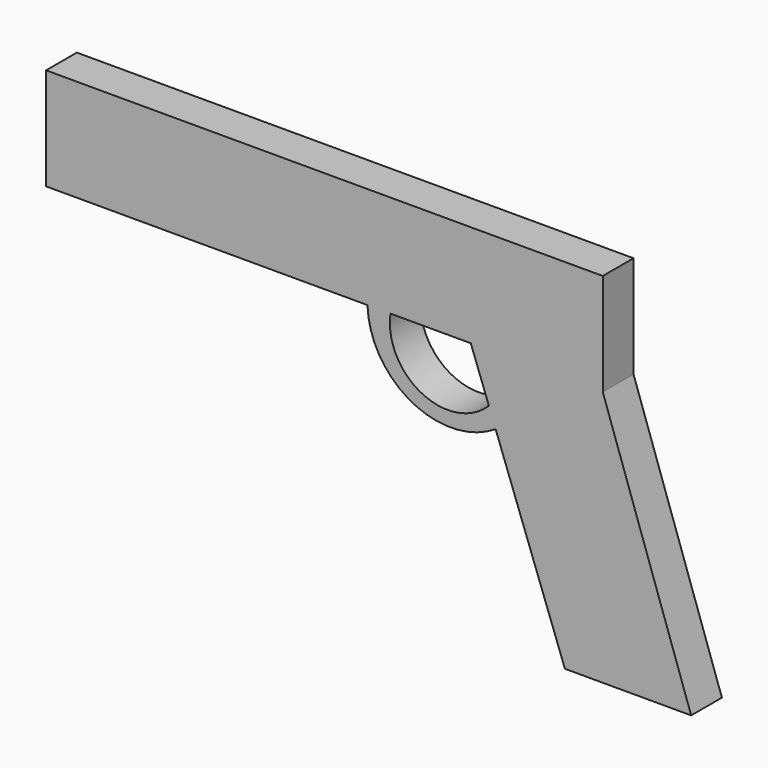
from build123d import *

# Parameters (mm, degrees)
F1_DEPTH = 3.048


with BuildPart() as f1:
    # F0 (on Front) → F1 (new body, symmetric)
    with BuildSketch(Plane.XZ):
        Polygon((33.6788408458, 60.7129372656), (-54.6143352985, 60.7129372656), (-54.6143352985, 44.5106811821), (-3.6409557797, 44.5106811821), (0, 44.5106811821), (12.7433463931, 44.5106811821), (33.6788408458, 44.5106811821), align=None)
        Polygon((47.6965196431, 3.9140274748), (33.6788408458, 44.5106811821), (12.7433463931, 44.5106811821), (15.6103054986, 36.7139502643), (16.6838945941, 33.7943113768), (27.6712626219, 3.9140274748), align=None)
        with BuildLine():
            Line((0, 44.5106811821), (-3.6409557797, 44.5106811821))
            ThreePointArc((-3.6409557797, 44.5106811821), (3.4041040429, 33.2400477787), (16.6838945941, 33.7943113768))
            Line((16.6838945941, 33.7943113768), (15.6103054986, 36.7139502643))
            ThreePointArc((15.6103054986, 36.7139502643), (4.9897077202, 34.97534332), (0, 44.5106811821))
        make_face()
    extrude(amount=F1_DEPTH, both=True)


solid = f1.part
